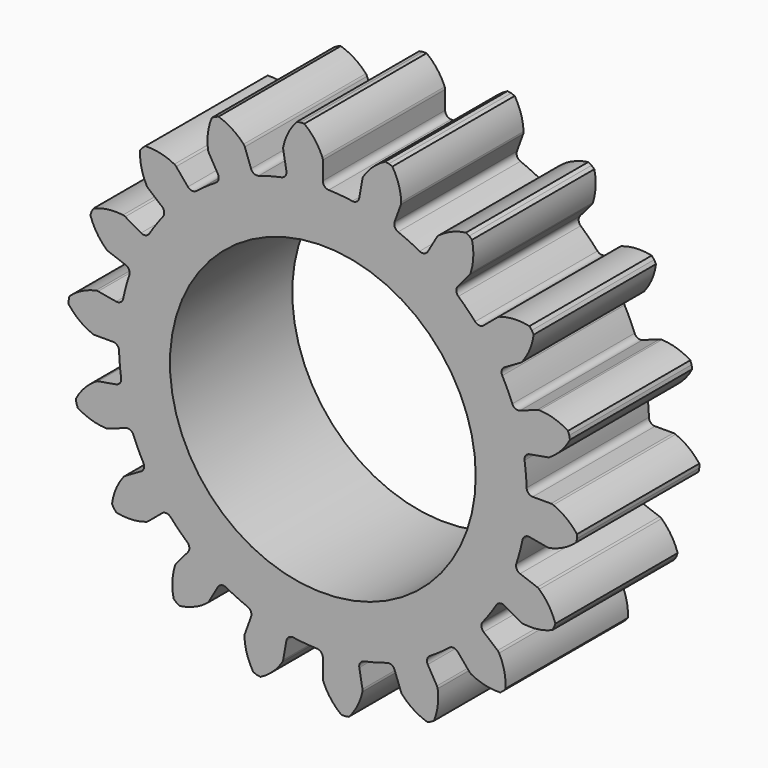
from build123d import *

# Parameters (mm, degrees)
F1_DEPTH = 6.35
F2_R     = 6.35
F3_DEPTH = 25.4


with BuildPart() as f1:
    # F0 (on Front) → F1 (new body)
    with BuildSketch(Plane.XZ):
        with BuildLine():
            ThreePointArc((-1.513685, 8.584537), (-1.553662, 8.397787), (-1.712453, 8.29168))
            ThreePointArc((-1.712453, 8.29168), (-2.191335, 8.178172), (-2.662812, 8.037032))
            ThreePointArc((-2.662812, 8.037032), (-2.853383, 8.049528), (-2.981378, 8.191269))
            Line((-2.981378, 8.191269), (-3.241141, 8.904962))
            ThreePointArc((-3.241141, 8.904962), (-3.262414, 8.949425), (-3.291873, 8.988942))
            ThreePointArc((-3.291873, 8.988942), (-3.767731, 9.39122), (-4.331659, 9.656276))
            Line((-4.331659, 9.656276), (-4.477964, 9.603026))
            Line((-4.477964, 9.603026), (-4.6128, 9.525178))
            ThreePointArc((-4.6128, 9.525178), (-4.772241, 8.92281), (-4.769954, 8.299701))
            ThreePointArc((-4.769954, 8.299701), (-4.758618, 8.251733), (-4.738232, 8.206858))
            Line((-4.738232, 8.206858), (-4.358483, 7.549115))
            ThreePointArc((-4.358483, 7.549115), (-4.332177, 7.359955), (-4.445101, 7.205937))
            ThreePointArc((-4.445101, 7.205937), (-4.85628, 6.935487), (-5.251051, 6.641604))
            ThreePointArc((-5.251051, 6.641604), (-5.434404, 6.588168), (-5.603158, 6.677584))
            Line((-5.603158, 6.677584), (-6.091353, 7.259392))
            ThreePointArc((-6.091353, 7.259392), (-6.126549, 7.293897), (-6.167747, 7.320956))
            ThreePointArc((-6.167747, 7.320956), (-6.752496, 7.53622), (-7.373069, 7.592417))
            Line((-7.373069, 7.592417), (-7.492338, 7.492338))
            Line((-7.492338, 7.492338), (-7.592417, 7.373069))
            ThreePointArc((-7.592417, 7.373069), (-7.53622, 6.752496), (-7.320956, 6.167747))
            ThreePointArc((-7.320956, 6.167747), (-7.293897, 6.126549), (-7.259392, 6.091353))
            Line((-7.259392, 6.091353), (-6.677584, 5.603158))
            ThreePointArc((-6.677584, 5.603158), (-6.588168, 5.434404), (-6.641604, 5.251051))
            ThreePointArc((-6.641604, 5.251051), (-6.935487, 4.85628), (-7.205937, 4.445101))
            ThreePointArc((-7.205937, 4.445101), (-7.359955, 4.332177), (-7.549115, 4.358483))
            Line((-7.549115, 4.358483), (-8.206858, 4.738232))
            ThreePointArc((-8.206858, 4.738232), (-8.251733, 4.758618), (-8.299701, 4.769954))
            ThreePointArc((-8.299701, 4.769954), (-8.92281, 4.772241), (-9.525178, 4.6128))
            Line((-9.525178, 4.6128), (-9.603026, 4.477964))
            Line((-9.603026, 4.477964), (-9.656276, 4.331659))
            ThreePointArc((-9.656276, 4.331659), (-9.39122, 3.767731), (-8.988942, 3.291873))
            ThreePointArc((-8.988942, 3.291873), (-8.949425, 3.262414), (-8.904962, 3.241141))
            Line((-8.904962, 3.241141), (-8.191269, 2.981378))
            ThreePointArc((-8.191269, 2.981378), (-8.049528, 2.853383), (-8.037032, 2.662812))
            ThreePointArc((-8.037032, 2.662812), (-8.178172, 2.191335), (-8.29168, 1.712453))
            ThreePointArc((-8.29168, 1.712453), (-8.397787, 1.553662), (-8.584537, 1.513685))
            Line((-8.584537, 1.513685), (-9.332494, 1.645571))
            ThreePointArc((-9.332494, 1.645571), (-9.381636, 1.649379), (-9.430588, 1.643626))
            ThreePointArc((-9.430588, 1.643626), (-10.016901, 1.432659), (-10.52841, 1.076811))
            Line((-10.52841, 1.076811), (-10.555446, 0.923482))
            Line((-10.555446, 0.923482), (-10.555446, 0.767787))
            ThreePointArc((-10.555446, 0.767787), (-10.1135, 0.328523), (-9.572729, 0.018949))
            ThreePointArc((-9.572729, 0.018949), (-9.52552, 0.004782), (-9.476463, 0))
            Line((-9.476463, 0), (-8.716967, 0))
            ThreePointArc((-8.716967, 0), (-8.539997, -0.071798), (-8.463075, -0.246602))
            ThreePointArc((-8.463075, -0.246602), (-8.434448, -0.737919), (-8.377323, -1.226742))
            ThreePointArc((-8.377323, -1.226742), (-8.422723, -1.412248), (-8.584537, -1.513685))
            Line((-8.584537, -1.513685), (-9.332494, -1.645571))
            ThreePointArc((-9.332494, -1.645571), (-9.379975, -1.658799), (-9.424007, -1.680948))
            ThreePointArc((-9.424007, -1.680948), (-9.902806, -2.079723), (-10.261761, -2.589057))
            Line((-10.261761, -2.589057), (-10.234724, -2.742386))
            Line((-10.234724, -2.742386), (-10.181474, -2.888691))
            ThreePointArc((-10.181474, -2.888691), (-9.615943, -3.150311), (-9.001904, -3.25626))
            ThreePointArc((-9.001904, -3.25626), (-8.952696, -3.253426), (-8.904962, -3.241141))
            Line((-8.904962, -3.241141), (-8.191269, -2.981378))
            ThreePointArc((-8.191269, -2.981378), (-8.000415, -2.988319), (-7.868346, -3.126272))
            ThreePointArc((-7.868346, -3.126272), (-7.673406, -3.578168), (-7.452539, -4.017974))
            ThreePointArc((-7.452539, -4.017974), (-7.431753, -4.207819), (-7.549115, -4.358483))
            Line((-7.549115, -4.358483), (-8.206858, -4.738232))
            ThreePointArc((-8.206858, -4.738232), (-8.246951, -4.766901), (-8.280752, -4.802775))
            ThreePointArc((-8.280752, -4.802775), (-8.594287, -5.341259), (-8.757391, -5.942646))
            Line((-8.757391, -5.942646), (-8.679544, -6.077482))
            Line((-8.679544, -6.077482), (-8.579465, -6.196751))
            ThreePointArc((-8.579465, -6.196751), (-7.958561, -6.24917), (-7.345316, -6.138716))
            ThreePointArc((-7.345316, -6.138716), (-7.300045, -6.119223), (-7.259392, -6.091353))
            Line((-7.259392, -6.091353), (-6.677584, -5.603158))
            ThreePointArc((-6.677584, -5.603158), (-6.495866, -5.544405), (-6.324579, -5.628868))
            ThreePointArc((-6.324579, -5.628868), (-5.986837, -5.986837), (-5.628868, -6.324579))
            ThreePointArc((-5.628868, -6.324579), (-5.544405, -6.495866), (-5.603158, -6.677584))
            Line((-5.603158, -6.677584), (-6.091353, -7.259392))
            ThreePointArc((-6.091353, -7.259392), (-6.119223, -7.300045), (-6.138716, -7.345316))
            ThreePointArc((-6.138716, -7.345316), (-6.24917, -7.958561), (-6.196751, -8.579465))
            Line((-6.196751, -8.579465), (-6.077482, -8.679544))
            Line((-6.077482, -8.679544), (-5.942646, -8.757391))
            ThreePointArc((-5.942646, -8.757391), (-5.341259, -8.594287), (-4.802775, -8.280752))
            ThreePointArc((-4.802775, -8.280752), (-4.766901, -8.246951), (-4.738232, -8.206858))
            Line((-4.738232, -8.206858), (-4.358483, -7.549115))
            ThreePointArc((-4.358483, -7.549115), (-4.207819, -7.431753), (-4.017974, -7.452539))
            ThreePointArc((-4.017974, -7.452539), (-3.578168, -7.673406), (-3.126272, -7.868346))
            ThreePointArc((-3.126272, -7.868346), (-2.988319, -8.000415), (-2.981378, -8.191269))
            Line((-2.981378, -8.191269), (-3.241141, -8.904962))
            ThreePointArc((-3.241141, -8.904962), (-3.253426, -8.952696), (-3.25626, -9.001904))
            ThreePointArc((-3.25626, -9.001904), (-3.150311, -9.615943), (-2.888691, -10.181474))
            Line((-2.888691, -10.181474), (-2.742386, -10.234724))
            Line((-2.742386, -10.234724), (-2.589057, -10.261761))
            ThreePointArc((-2.589057, -10.261761), (-2.079723, -9.902806), (-1.680948, -9.424007))
            ThreePointArc((-1.680948, -9.424007), (-1.658799, -9.379975), (-1.645571, -9.332494))
            Line((-1.645571, -9.332494), (-1.513685, -8.584537))
            ThreePointArc((-1.513685, -8.584537), (-1.412248, -8.422723), (-1.226742, -8.377323))
            ThreePointArc((-1.226742, -8.377323), (-0.737919, -8.434448), (-0.246602, -8.463075))
            ThreePointArc((-0.246602, -8.463075), (-0.071798, -8.539997), (0, -8.716967))
            Line((0, -8.716967), (0, -9.476463))
            ThreePointArc((0, -9.476463), (0.004782, -9.52552), (0.018949, -9.572729))
            ThreePointArc((0.018949, -9.572729), (0.328523, -10.1135), (0.767787, -10.555446))
            Line((0.767787, -10.555446), (0.923482, -10.555446))
            Line((0.923482, -10.555446), (1.076811, -10.52841))
            ThreePointArc((1.076811, -10.52841), (1.432659, -10.016901), (1.643626, -9.430588))
            ThreePointArc((1.643626, -9.430588), (1.649379, -9.381636), (1.645571, -9.332494))
            Line((1.645571, -9.332494), (1.513685, -8.584537))
            ThreePointArc((1.513685, -8.584537), (1.553662, -8.397787), (1.712453, -8.29168))
            ThreePointArc((1.712453, -8.29168), (2.191335, -8.178172), (2.662812, -8.037032))
            ThreePointArc((2.662812, -8.037032), (2.853383, -8.049528), (2.981378, -8.191269))
            Line((2.981378, -8.191269), (3.241141, -8.904962))
            ThreePointArc((3.241141, -8.904962), (3.262414, -8.949425), (3.291873, -8.988942))
            ThreePointArc((3.291873, -8.988942), (3.767731, -9.39122), (4.331659, -9.656276))
            Line((4.331659, -9.656276), (4.477964, -9.603026))
            Line((4.477964, -9.603026), (4.6128, -9.525178))
            ThreePointArc((4.6128, -9.525178), (4.772241, -8.92281), (4.769954, -8.299701))
            ThreePointArc((4.769954, -8.299701), (4.758618, -8.251733), (4.738232, -8.206858))
            Line((4.738232, -8.206858), (4.358483, -7.549115))
            ThreePointArc((4.358483, -7.549115), (4.332177, -7.359955), (4.445101, -7.205937))
            ThreePointArc((4.445101, -7.205937), (4.85628, -6.935487), (5.251051, -6.641604))
            ThreePointArc((5.251051, -6.641604), (5.434404, -6.588168), (5.603158, -6.677584))
            Line((5.603158, -6.677584), (6.091353, -7.259392))
            ThreePointArc((6.091353, -7.259392), (6.126549, -7.293897), (6.167747, -7.320956))
            ThreePointArc((6.167747, -7.320956), (6.752496, -7.53622), (7.373069, -7.592417))
            Line((7.373069, -7.592417), (7.492338, -7.492338))
            Line((7.492338, -7.492338), (7.592417, -7.373069))
            ThreePointArc((7.592417, -7.373069), (7.53622, -6.752496), (7.320956, -6.167747))
            ThreePointArc((7.320956, -6.167747), (7.293897, -6.126549), (7.259392, -6.091353))
            Line((7.259392, -6.091353), (6.677584, -5.603158))
            ThreePointArc((6.677584, -5.603158), (6.588168, -5.434404), (6.641604, -5.251051))
            ThreePointArc((6.641604, -5.251051), (6.935487, -4.85628), (7.205937, -4.445101))
            ThreePointArc((7.205937, -4.445101), (7.359955, -4.332177), (7.549115, -4.358483))
            Line((7.549115, -4.358483), (8.206858, -4.738232))
            ThreePointArc((8.206858, -4.738232), (8.251733, -4.758618), (8.299701, -4.769954))
            ThreePointArc((8.299701, -4.769954), (8.92281, -4.772241), (9.525178, -4.6128))
            Line((9.525178, -4.6128), (9.603026, -4.477964))
            Line((9.603026, -4.477964), (9.656276, -4.331659))
            ThreePointArc((9.656276, -4.331659), (9.39122, -3.767731), (8.988942, -3.291873))
            ThreePointArc((8.988942, -3.291873), (8.949425, -3.262414), (8.904962, -3.241141))
            Line((8.904962, -3.241141), (8.191269, -2.981378))
            ThreePointArc((8.191269, -2.981378), (8.049528, -2.853383), (8.037032, -2.662812))
            ThreePointArc((8.037032, -2.662812), (8.178172, -2.191335), (8.29168, -1.712453))
            ThreePointArc((8.29168, -1.712453), (8.397787, -1.553662), (8.584537, -1.513685))
            Line((8.584537, -1.513685), (9.332494, -1.645571))
            ThreePointArc((9.332494, -1.645571), (9.381636, -1.649379), (9.430588, -1.643626))
            ThreePointArc((9.430588, -1.643626), (10.016901, -1.432659), (10.52841, -1.076811))
            Line((10.52841, -1.076811), (10.555446, -0.923482))
            Line((10.555446, -0.923482), (10.555446, -0.767787))
            ThreePointArc((10.555446, -0.767787), (10.1135, -0.328523), (9.572729, -0.018949))
            ThreePointArc((9.572729, -0.018949), (9.52552, -0.004782), (9.476463, 0))
            Line((9.476463, 0), (8.716967, 0))
            ThreePointArc((8.716967, 0), (8.539997, 0.071798), (8.463075, 0.246602))
            ThreePointArc((8.463075, 0.246602), (8.434448, 0.737919), (8.377323, 1.226742))
            ThreePointArc((8.377323, 1.226742), (8.422723, 1.412248), (8.584537, 1.513685))
            Line((8.584537, 1.513685), (9.332494, 1.645571))
            ThreePointArc((9.332494, 1.645571), (9.379975, 1.658799), (9.424007, 1.680948))
            ThreePointArc((9.424007, 1.680948), (9.902806, 2.079723), (10.261761, 2.589057))
            Line((10.261761, 2.589057), (10.234724, 2.742386))
            Line((10.234724, 2.742386), (10.181474, 2.888691))
            ThreePointArc((10.181474, 2.888691), (9.615943, 3.150311), (9.001904, 3.25626))
            ThreePointArc((9.001904, 3.25626), (8.952696, 3.253426), (8.904962, 3.241141))
            Line((8.904962, 3.241141), (8.191269, 2.981378))
            ThreePointArc((8.191269, 2.981378), (8.000415, 2.988319), (7.868346, 3.126272))
            ThreePointArc((7.868346, 3.126272), (7.673406, 3.578168), (7.452539, 4.017974))
            ThreePointArc((7.452539, 4.017974), (7.431753, 4.207819), (7.549115, 4.358483))
            Line((7.549115, 4.358483), (8.206858, 4.738232))
            ThreePointArc((8.206858, 4.738232), (8.246951, 4.766901), (8.280752, 4.802775))
            ThreePointArc((8.280752, 4.802775), (8.594287, 5.341259), (8.757391, 5.942646))
            Line((8.757391, 5.942646), (8.679544, 6.077482))
            Line((8.679544, 6.077482), (8.579465, 6.196751))
            ThreePointArc((8.579465, 6.196751), (7.958561, 6.24917), (7.345316, 6.138716))
            ThreePointArc((7.345316, 6.138716), (7.300045, 6.119223), (7.259392, 6.091353))
            Line((7.259392, 6.091353), (6.677584, 5.603158))
            ThreePointArc((6.677584, 5.603158), (6.495866, 5.544405), (6.324579, 5.628868))
            ThreePointArc((6.324579, 5.628868), (5.986837, 5.986837), (5.628868, 6.324579))
            ThreePointArc((5.628868, 6.324579), (5.544405, 6.495866), (5.603158, 6.677584))
            Line((5.603158, 6.677584), (6.091353, 7.259392))
            ThreePointArc((6.091353, 7.259392), (6.119223, 7.300045), (6.138716, 7.345316))
            ThreePointArc((6.138716, 7.345316), (6.24917, 7.958561), (6.196751, 8.579465))
            Line((6.196751, 8.579465), (6.077482, 8.679544))
            Line((6.077482, 8.679544), (5.942646, 8.757391))
            ThreePointArc((5.942646, 8.757391), (5.341259, 8.594287), (4.802775, 8.280752))
            ThreePointArc((4.802775, 8.280752), (4.766901, 8.246951), (4.738232, 8.206858))
            Line((4.738232, 8.206858), (4.358483, 7.549115))
            ThreePointArc((4.358483, 7.549115), (4.207819, 7.431753), (4.017974, 7.452539))
            ThreePointArc((4.017974, 7.452539), (3.578168, 7.673406), (3.126272, 7.868346))
            ThreePointArc((3.126272, 7.868346), (2.988319, 8.000415), (2.981378, 8.191269))
            Line((2.981378, 8.191269), (3.241141, 8.904962))
            ThreePointArc((3.241141, 8.904962), (3.253426, 8.952696), (3.25626, 9.001904))
            ThreePointArc((3.25626, 9.001904), (3.150311, 9.615943), (2.888691, 10.181474))
            Line((2.888691, 10.181474), (2.742386, 10.234724))
            Line((2.742386, 10.234724), (2.589057, 10.261761))
            ThreePointArc((2.589057, 10.261761), (2.079723, 9.902806), (1.680948, 9.424007))
            ThreePointArc((1.680948, 9.424007), (1.658799, 9.379975), (1.645571, 9.332494))
            Line((1.645571, 9.332494), (1.513685, 8.584537))
            ThreePointArc((1.513685, 8.584537), (1.412248, 8.422723), (1.226742, 8.377323))
            ThreePointArc((1.226742, 8.377323), (0.737919, 8.434448), (0.246602, 8.463075))
            ThreePointArc((0.246602, 8.463075), (0.071798, 8.539997), (0, 8.716967))
            Line((0, 8.716967), (0, 9.476463))
            ThreePointArc((0, 9.476463), (-0.004782, 9.52552), (-0.018949, 9.572729))
            ThreePointArc((-0.018949, 9.572729), (-0.328523, 10.1135), (-0.767787, 10.555446))
            Line((-0.767787, 10.555446), (-0.923482, 10.555446))
            Line((-0.923482, 10.555446), (-1.076811, 10.52841))
            ThreePointArc((-1.076811, 10.52841), (-1.432659, 10.016901), (-1.643626, 9.430588))
            ThreePointArc((-1.643626, 9.430588), (-1.649379, 9.381636), (-1.645571, 9.332494))
            Line((-1.645571, 9.332494), (-1.513685, 8.584537))
        make_face()
    extrude(amount=F1_DEPTH)

    # F2 (on face) → F3 (cut)
    with BuildSketch(Plane.XZ.offset(6.35)):
        Circle(F2_R)
    extrude(amount=-F3_DEPTH, mode=Mode.SUBTRACT)


solid = f1.part
